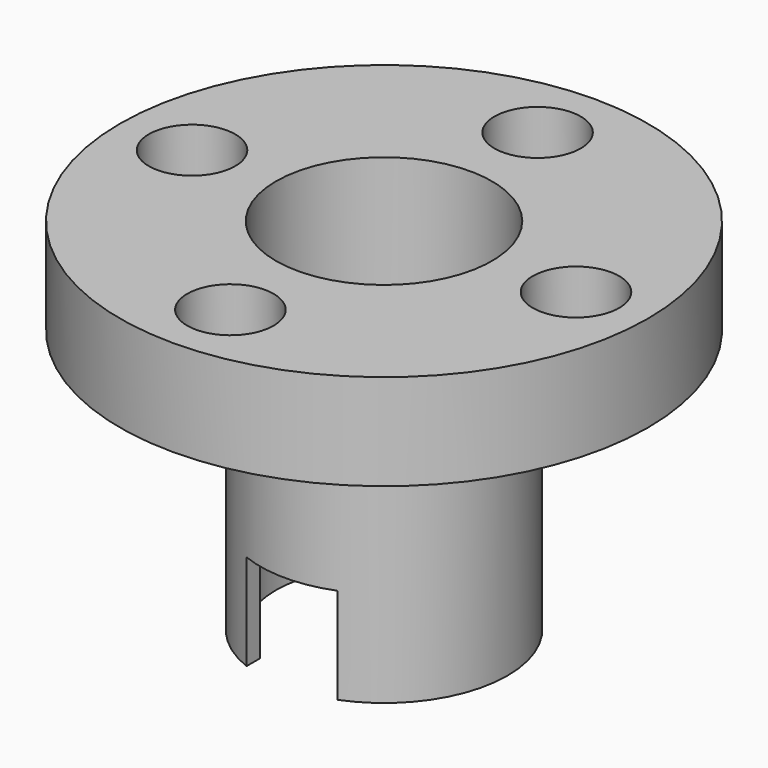
from build123d import *

# Parameters (mm, degrees)
SKETCH001_R   = 4.5
HOLE_DEPTH    = 25
SKETCH002_W   = 3.8
SKETCH002_H   = 4
POCKET_DEPTH  = 10
SKETCH003_R   = 1.8
HOLE001_DEPTH = 25


with BuildPart() as part:
    # Sketch → Revolution (revolve)
    with BuildSketch(Plane.XZ):
        Polygon((0, 0), (11, 0), (11, -4), (5.15, -4), (5.15, -15), (0, -15), align=None)
    revolve(axis=Axis((0, 0, 0), (0, 0, 1)))

    # Sketch001 (on Face1 of Revolution) → Hole (cut)
    with BuildSketch(Plane(origin=(0, 0, 0), x_dir=(-1, 0, 0), z_dir=(0, 0, 1))):
        Circle(SKETCH001_R)
    extrude(amount=-HOLE_DEPTH, mode=Mode.SUBTRACT)

    # Sketch002 → Pocket (cut, symmetric)
    with BuildSketch(Plane.XZ):
        with Locations((0, -13)):
            Rectangle(SKETCH002_W, SKETCH002_H)
    extrude(amount=POCKET_DEPTH, both=True, mode=Mode.SUBTRACT)

    # Sketch003 (on Face1 of Pocket) → Hole001 (cut)
    with BuildSketch(Plane(origin=(0, 0, 0), x_dir=(-1, 0, 0), z_dir=(0, 0, 1))):
        with Locations((0, 8)):
            Circle(SKETCH003_R)
        with Locations((-8, 0)):
            Circle(SKETCH003_R)
        with Locations((0, -8)):
            Circle(SKETCH003_R)
        with Locations((8, 0)):
            Circle(SKETCH003_R)
    extrude(amount=-HOLE001_DEPTH, mode=Mode.SUBTRACT)


solid = part.part
